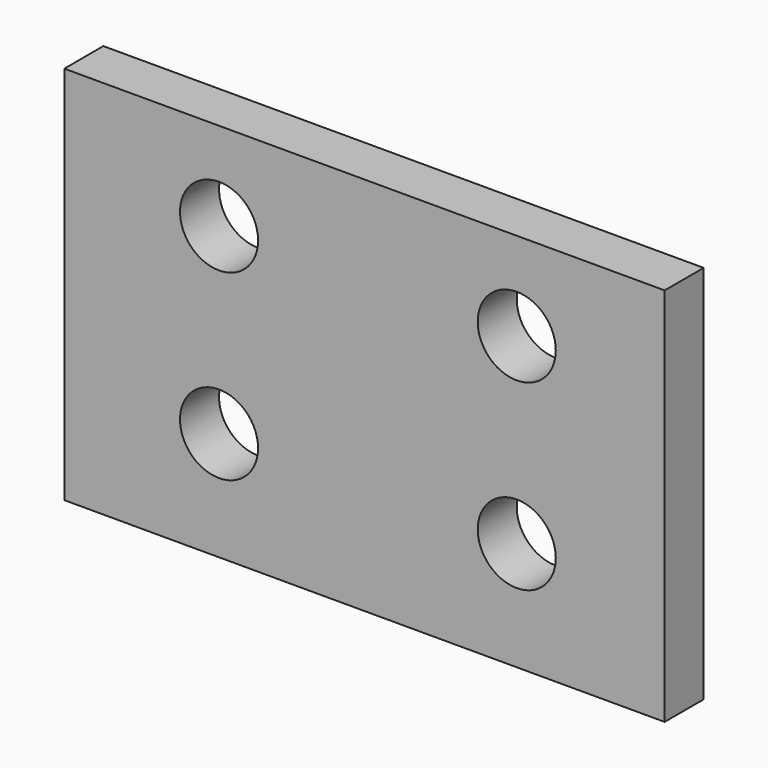
from build123d import *

# Parameters (mm, degrees)
F0_W     = 61.502312
F0_H     = 38.921751
F0_R     = 4
F1_DEPTH = 5


with BuildPart() as f1:
    # F0 (on Front) → F1 (new body)
    with BuildSketch(Plane.XZ):
        with Locations((-0.348881, -1.046644)):
            Rectangle(F0_W, F0_H)
        with Locations((-15.24953, -9.365796)):
            Circle(F0_R, mode=Mode.SUBTRACT)
        with Locations((15.24953, -9.365796)):
            Circle(F0_R, mode=Mode.SUBTRACT)
        with Locations((-15.24953, 9.365796)):
            Circle(F0_R, mode=Mode.SUBTRACT)
        with Locations((15.24953, 9.365796)):
            Circle(F0_R, mode=Mode.SUBTRACT)
        with Locations((-0.348881, -1.046644)):
            Rectangle(F0_W, F0_H)
        with Locations((-15.24953, -9.365796)):
            Circle(F0_R, mode=Mode.SUBTRACT)
        with Locations((15.24953, -9.365796)):
            Circle(F0_R, mode=Mode.SUBTRACT)
        with Locations((-15.24953, 9.365796)):
            Circle(F0_R, mode=Mode.SUBTRACT)
        with Locations((15.24953, 9.365796)):
            Circle(F0_R, mode=Mode.SUBTRACT)
    extrude(amount=F1_DEPTH)


solid = f1.part
